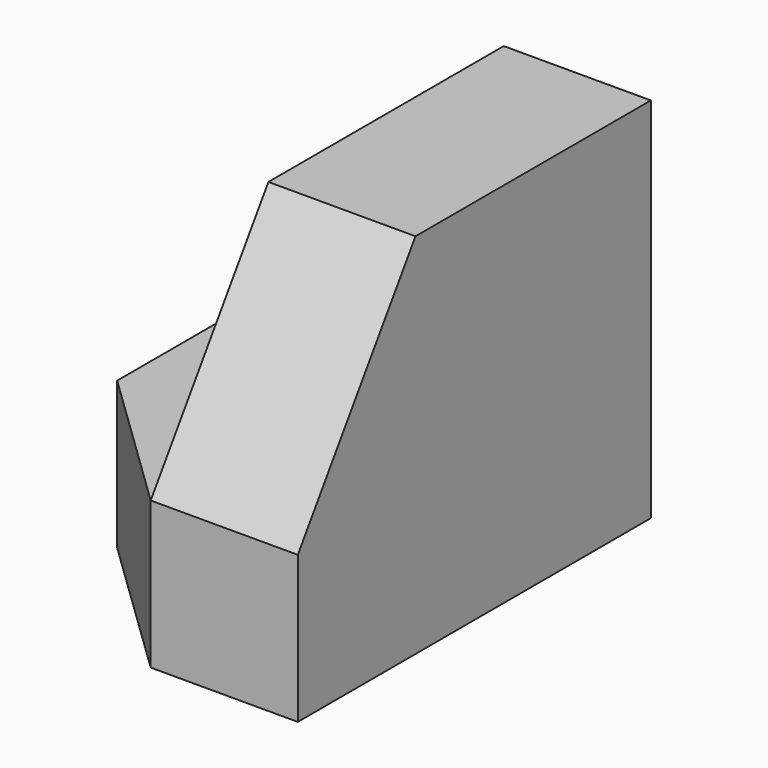
from build123d import *

# Parameters (mm, degrees)
F0_W     = 12.7
F0_H     = 12.7
F1_DEPTH = 38.1
F3_DEPTH = 12.7
F4_W     = 12.7
F4_H     = 12.7
F5_DEPTH = 38.1
F7_DEPTH = 25.4


with BuildPart() as f1:
    # F0 (on Front) → F1 (new body)
    with BuildSketch(Plane.XZ):
        with Locations((6.35, 6.35)):
            Rectangle(F0_W, F0_H)
    extrude(amount=F1_DEPTH)

    # F2 (on face) → F3 (join)
    with BuildSketch(Plane(origin=(0, 0, 0), x_dir=(0, -1, 0), z_dir=(-1, 0, 0))):
        Polygon((0, 12.7), (38.1, 12.7), (25.4, 31.75), (0, 31.75), align=None)
    extrude(amount=-F3_DEPTH)

    # F4 (on Front) → F5 (join)
    with BuildSketch(Plane.XZ):
        with Locations((-6.35, 6.35)):
            Rectangle(F4_W, F4_H)
    extrude(amount=F5_DEPTH)

    # F6 (on face) → F7 (cut)
    with BuildSketch(Plane.XY.offset(12.7)):
        Polygon((-12.7, -38.1), (0, -38.1), (-12.7, -25.844624), align=None)
    extrude(amount=-F7_DEPTH, mode=Mode.SUBTRACT)


solid = f1.part
